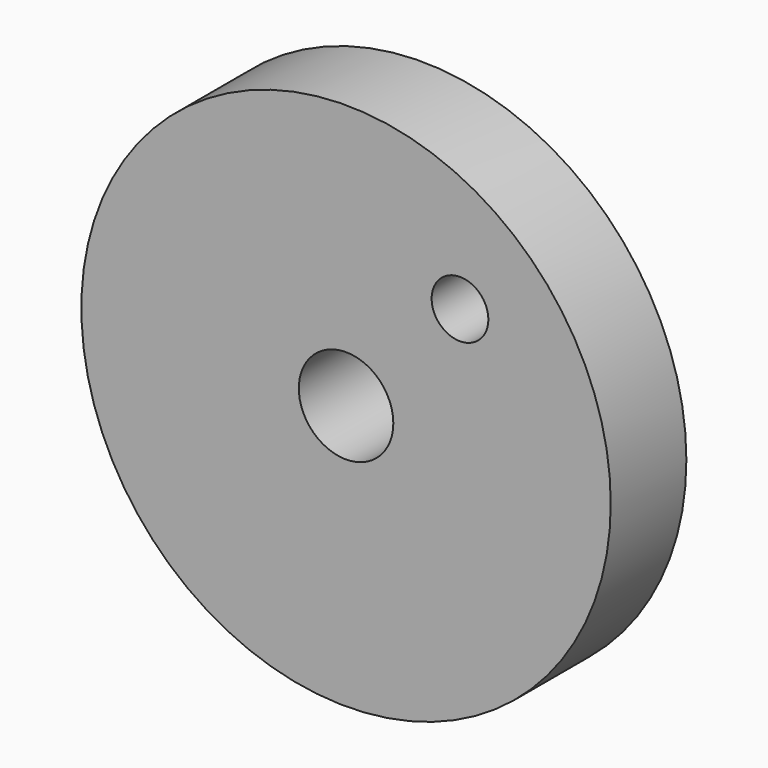
from build123d import *

# Parameters (mm, degrees)
F0_R     = 8.89
F0_R_2   = 1.5875
F0_R_3   = 0.9525
F1_DEPTH = 1.5875


with BuildPart() as f1:
    # F0 (on Front) → F1 (new body, symmetric)
    with BuildSketch(Plane.XZ):
        Circle(F0_R)
        Circle(F0_R_2, mode=Mode.SUBTRACT)
        with Locations((3.826566, 4.104861)):
            Circle(F0_R_3, mode=Mode.SUBTRACT)
    extrude(amount=F1_DEPTH, both=True)


solid = f1.part
